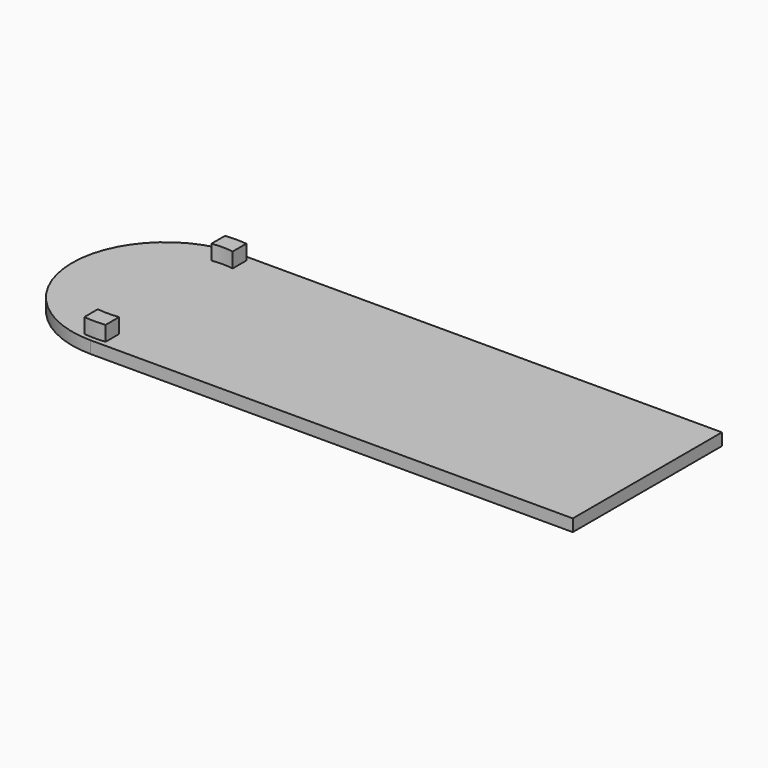
from build123d import *

# Parameters (mm, degrees)
F1_DEPTH = 0.8255
F3_DEPTH = 1.016


with BuildPart() as f1:
    # F0 (on Top) → F1 (new body)
    with BuildSketch(Plane.XY):
        with BuildLine():
            Line((32.839856, 6.35), (0, 6.35))
            ThreePointArc((0, 6.35), (-6.35, 0), (0, -6.35))
            Line((0, -6.35), (32.839856, -6.35))
            Line((32.839856, -6.35), (32.839856, 6.35))
        make_face()
    extrude(amount=F1_DEPTH)

    # F2 (on face) → F3 (join)
    with BuildSketch(Plane.XY.offset(0.8255)):
        with BuildLine():
            ThreePointArc((0.7239, -4.835616), (0, -4.8895), (-0.7239, -4.835616))
            Line((-0.7239, -4.835616), (-0.7239, -5.988909))
            ThreePointArc((-0.7239, -5.988909), (0, -6.0325), (0.7239, -5.988909))
            Line((0.7239, -5.988909), (0.7239, -4.835616))
        make_face()
        with BuildLine():
            ThreePointArc((0.7239, 5.988909), (0, 6.0325), (-0.7239, 5.988909))
            Line((-0.7239, 5.988909), (-0.7239, 4.835616))
            ThreePointArc((-0.7239, 4.835616), (0, 4.8895), (0.7239, 4.835616))
            Line((0.7239, 4.835616), (0.7239, 5.988909))
        make_face()
    extrude(amount=F3_DEPTH)


solid = f1.part
